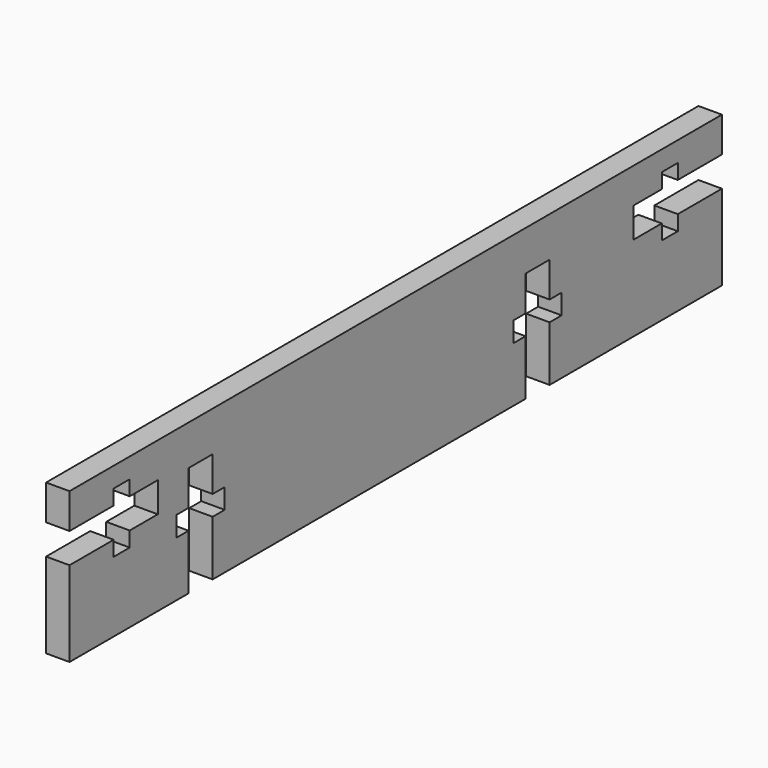
from build123d import *

# Parameters (mm, degrees)
F1_DEPTH = 2.9718


with BuildPart() as f1:
    # F0 (on Right) → F1 (new body)
    with BuildSketch(Plane.YZ):
        Polygon((0, 10.795), (0, 0), (18.8468, 0), (18.8468, 6.985), (16.9418, 6.985), (16.9418, 9.525), (18.8468, 9.525), (18.8468, 13.97), (22.6568, 13.97), (22.6568, 9.525), (24.5618, 9.525), (24.5618, 6.985), (22.6568, 6.985), (22.6568, 0), (72.1868, 0), (72.1868, 6.985), (70.2818, 6.985), (70.2818, 9.525), (72.1868, 9.525), (72.1868, 13.97), (75.9968, 13.97), (75.9968, 9.525), (77.9018, 9.525), (77.9018, 6.985), (75.9968, 6.985), (75.9968, 0), (103.2764, 0), (103.2764, 10.795), (96.2914, 10.795), (96.2914, 8.89), (93.7514, 8.89), (93.7514, 10.795), (89.306402, 10.795), (89.306402, 14.605), (93.7514, 14.605), (93.7514, 16.51), (96.2914, 16.51), (96.2914, 14.605), (103.2764, 14.605), (103.2764, 19.05), (0, 19.05), (0, 14.605), (6.985, 14.605), (6.985, 16.51), (9.525, 16.51), (9.525, 14.605), (13.97, 14.605), (13.97, 10.795), (9.525, 10.795), (9.525, 8.89), (6.985, 8.89), (6.985, 10.795), align=None)
    extrude(amount=F1_DEPTH)


solid = f1.part
